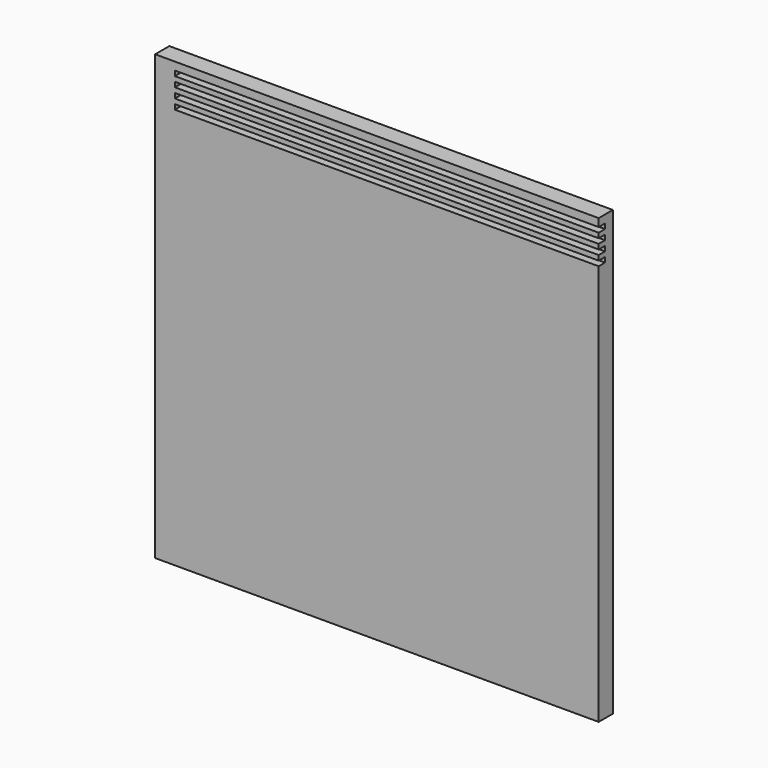
from build123d import *

# Parameters (mm, degrees)
F0_W     = 450
F0_H     = 450
F1_DEPTH = 18
F2_W     = 430
F2_H     = 5
F3_DEPTH = 8


with BuildPart() as f1:
    # F0 (on Front) → F1 (new body)
    with BuildSketch(Plane.XZ):
        Rectangle(F0_W, F0_H)
    extrude(amount=-F1_DEPTH)

    # F2 (on face) → F3 (cut)
    with BuildSketch(Plane.XZ):
        with Locations((10, 214.5)):
            Rectangle(F2_W, F2_H)
        with Locations((10, 204.5)):
            Rectangle(F2_W, F2_H)
        with Locations((10, 194.5)):
            Rectangle(F2_W, F2_H)
        with Locations((10, 184.5)):
            Rectangle(F2_W, F2_H)
    extrude(amount=-F3_DEPTH, mode=Mode.SUBTRACT)


solid = f1.part
